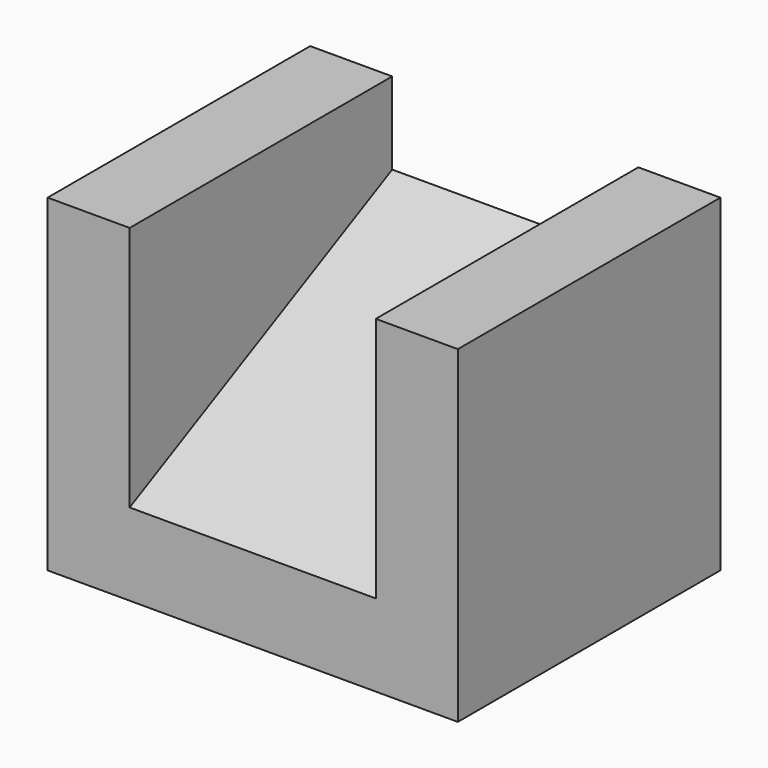
from build123d import *

# Parameters (mm, degrees)
F1_DEPTH = 20
F2_W     = 20
F2_H     = 20
F3_DEPTH = 5
F4_W     = 20
F4_H     = 20
F5_DEPTH = 5


with BuildPart() as f1:
    # F0 (on Right) → F1 (new body)
    with BuildSketch(Plane.YZ):
        Polygon((20, 15), (0, 5), (0, 0), (20, 0), align=None)
    extrude(amount=F1_DEPTH)

    # F2 (on Right) → F3 (join)
    with BuildSketch(Plane.YZ):
        with Locations((10, 10)):
            Rectangle(F2_W, F2_H)
    extrude(amount=F3_DEPTH)

    # F4 (on face) → F5 (join)
    with BuildSketch(Plane.YZ.offset(20)):
        with Locations((10, 10)):
            Rectangle(F4_W, F4_H)
    extrude(amount=F5_DEPTH)


solid = f1.part
